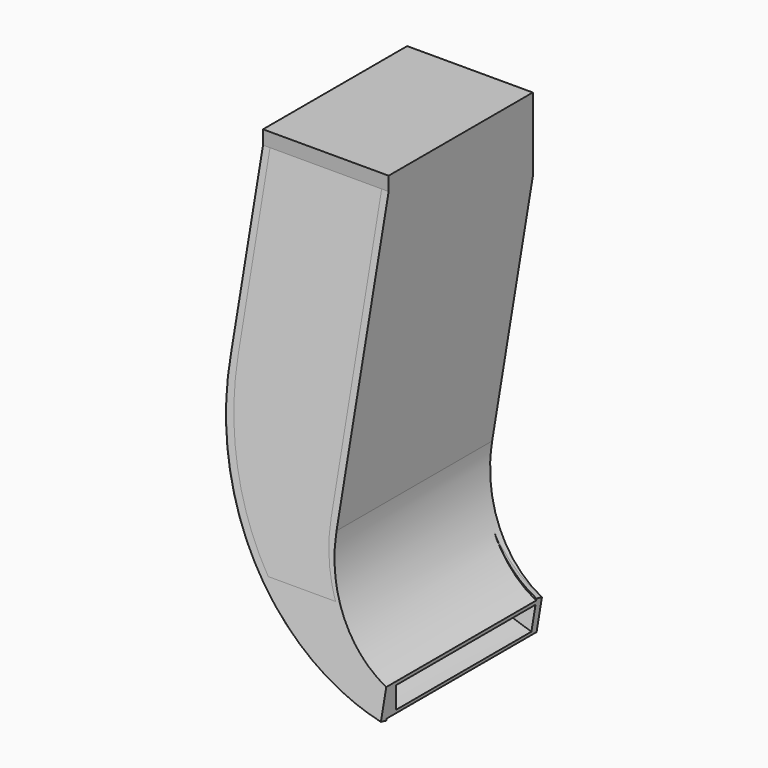
from build123d import *

# Parameters (mm, degrees)
SKETCH035_W     = 48
SKETCH035_H     = 58
PAD_DEPTH       = 18
PAD_DEPTH_BACK  = 10
POCKET_DEPTH    = 28.001
POCKET001_DEPTH = 39.7016683899
POCKET002_DEPTH = 39.7016683899
POCKET003_DEPTH = 37
PAD001_DEPTH    = 1
PAD002_DEPTH    = 1
SKETCH047_W     = 8.5912555575
SKETCH047_H     = 18
PAD003_DEPTH    = 1
SKETCH048_W     = 25.8171292066
SKETCH048_H     = 18
PAD004_DEPTH    = 2


with BuildPart() as part:
    # Sketch035 → Pad (new body, two sides)
    with BuildSketch(Plane(origin=(-14, 0, 0), x_dir=(0, -1, 0), z_dir=(-1, 0, 0))) as pad_sk:
        with Locations((35, 10)):
            Rectangle(SKETCH035_W, SKETCH035_H)
    extrude(amount=PAD_DEPTH)
    extrude(pad_sk.sketch, amount=-PAD_DEPTH_BACK)

    # Sketch037 (on Face6 of Pad) → Pocket (cut, through all)
    with BuildSketch(Plane(origin=(-32, 0, 0), x_dir=(0, -1, 0), z_dir=(-1, 0, 0))):
        Polygon((5.2832016696, 54.2912933219), (25.506728, -30.1946948458), (-54.670101, -30.1946948458), (-35.189949, 60.570816), (99.69088, 60.570816), (63.150125, -71.0089635543), (31.712076, 60.3269168671), align=None)
    extrude(amount=-POCKET_DEPTH, mode=Mode.SUBTRACT)

    # Sketch038 (on Face5 of Pocket) → Pocket001 (cut, through all)
    with BuildSketch(Plane(origin=(-14, -11, 0), x_dir=(0, 0, -1), z_dir=(0, 1, 0))):
        with BuildLine():
            Line((-54.22, 0), (0, 0))
            ThreePointArc((6.64, -31.06), (15.8809099236, -12.8447314265), (0, 0))
            Line((-54.22, -31.06), (6.64, -31.06))
            Line((-54.22, 0), (-54.22, -31.06))
        make_face()
    extrude(amount=-POCKET001_DEPTH, mode=Mode.SUBTRACT)

    # Sketch039 (on Face5 of Pocket001) → Pocket002 (cut, through all)
    with BuildSketch(Plane(origin=(-14, -11, 0), x_dir=(0, 0, -1), z_dir=(0, 1, 0))):
        with BuildLine():
            Line((-54.093197, 18), (-15, 18))
            ThreePointArc((19, -10), (7.0227155455, 10.0990117339), (-15, 18))
            Line((19, -10), (21.080846, -20.6503515699))
            Line((21.080846, -20.6503515699), (53.173771, 36.372562))
            Line((53.173771, 36.372562), (-65.403534, 96.827888))
            Line((-65.403534, 96.827888), (-54.093197, 18))
        make_face()
    extrude(amount=-POCKET002_DEPTH, mode=Mode.SUBTRACT)

    # Sketch043 (on Face5 of Pocket002) → Pocket003 (cut)
    with BuildSketch(Plane(origin=(-14, -11, 0), x_dir=(0, 0, -1), z_dir=(0, 1, 0))):
        with BuildLine():
            Line((-15.245619, 17), (-45.757725, 17))
            Line((-45.757725, 17), (-45.757725, 1))
            Line((-45.757725, 1), (-1.199132, 1))
            ThreePointArc((15.9159831091, -11.1438635069), (9.2937296934, -2.3443851955), (-1.199132, 1))
            Line((15.9159831091, -11.1438635069), (19.157257, -22.045523))
            ThreePointArc((19.157257, -22.045523), (10.774136684, 5.2470278766), (-15.245619, 17))
        make_face()
    extrude(amount=-POCKET003_DEPTH, mode=Mode.SUBTRACT)

    # Sketch045 (on Face2 of Pocket003) → Pad001 (join)
    with BuildSketch(Plane(origin=(-14, -43.6514436381, 10.4489056579), x_dir=(0, 0.2327948443, 0.9725258662), z_dir=(0, -0.9725258662, 0.2327948443))):
        with BuildLine():
            Line((4.6796640586, 18), (29.3576709206, 18))
            Line((29.3576709206, 18), (29.3576709206, 0))
            Line((29.3576709206, 0), (-10.7440902302, 0))
            ThreePointArc((-10.7440902303, 0), (-19.9801823393, -2.6447416067), (-26.1608157681, -10))
            Line((-30.2808456627, -10), (-26.1608157681, -10))
            ThreePointArc((4.6796640586, 18), (-17.8355499986, 10.2865978549), (-30.2808456627, -10))
        make_face()
    extrude(amount=-PAD001_DEPTH)

    # Sketch046 (on Face14 of Pad001) → Pad002 (join)
    with BuildSketch(Plane(origin=(-14, -17.2883817298, 4.1383435373), x_dir=(0, -0.2327948443, -0.9725258662), z_dir=(0, 0.9725258662, -0.2327948443))):
        with BuildLine():
            Line((-11.1685013634, 18), (-27.012547242, 18))
            Line((-27.012547242, 18), (-27.012547242, 0))
            Line((-27.012547242, 0), (4.2552529254, 0))
            ThreePointArc((19.6719784632, -10), (13.534807381, -2.5777368999), (4.2552529254, 0))
            Line((19.6719784632, -10), (23.7920083579, -10))
            ThreePointArc((23.7920083579, -10), (11.1478849959, 10.0383436525), (-11.1685013634, 18))
        make_face()
    extrude(amount=-PAD002_DEPTH)

    # Sketch047 (on Face4 of Pad002) → Pad003 (join)
    with BuildSketch(Plane(origin=(-14, -11, 0), x_dir=(0, 0, -1), z_dir=(0, 1, 0))):
        with Locations((-34.7043722212, 9)):
            Rectangle(SKETCH047_W, SKETCH047_H)
    extrude(amount=-PAD003_DEPTH)

    # Sketch048 (on Face1 of Pad003) → Pad004 (join)
    with BuildSketch(Plane(origin=(-14, 0, 39), x_dir=(0, 1, 0), z_dir=(0, 0, 1))):
        with Locations((-23.9085646033, 9)):
            Rectangle(SKETCH048_W, SKETCH048_H)
    extrude(amount=PAD004_DEPTH)


solid = part.part
